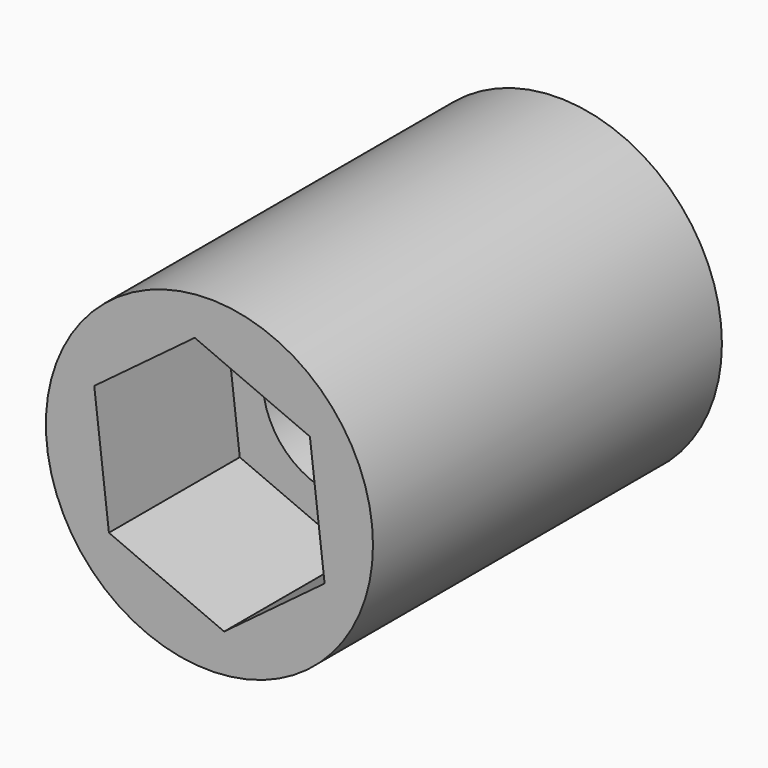
from build123d import *

# Parameters (mm, degrees)
F0_R     = 9.525
F1_DEPTH = 25.4
F2_R     = 4.515684
F3_DEPTH = 25.401
F2_W     = 9.515054
F2_H     = 9.525
F4_DEPTH = 11.0998
F5_R     = 4.515684
F6_DEPTH = 9.525


with BuildPart() as f1:
    # F0 (on Front) → F1 (new body)
    with BuildSketch(Plane.XZ):
        Circle(F0_R)
    extrude(amount=F1_DEPTH)

    # F2 (on Front) → F3 (cut, through all)
    with BuildSketch(Plane.XZ):
        Circle(F2_R)
    extrude(amount=F3_DEPTH, mode=Mode.SUBTRACT)

    # F2 (on Front) → F4 (cut)
    with BuildSketch(Plane.XZ):
        Rectangle(F2_W, F2_H)
        Circle(F2_R, mode=Mode.SUBTRACT)
    extrude(amount=F4_DEPTH, mode=Mode.SUBTRACT)

    # F5 (on face) → F6 (cut)
    with BuildSketch(Plane.XZ.offset(25.4)):
        Polygon((-0.856141, 7.25214), (-6.708608, 2.88463), (-5.852467, -4.36751), (0.856141, -7.25214), (6.708608, -2.88463), (5.852467, 4.36751), align=None)
        Circle(F5_R, mode=Mode.SUBTRACT)
        Polygon((-0.856141, 7.25214), (-6.708608, 2.88463), (-5.852467, -4.36751), (0.856141, -7.25214), (6.708608, -2.88463), (5.852467, 4.36751), align=None)
        Circle(F5_R, mode=Mode.SUBTRACT)
    extrude(amount=-F6_DEPTH, mode=Mode.SUBTRACT)


solid = f1.part
